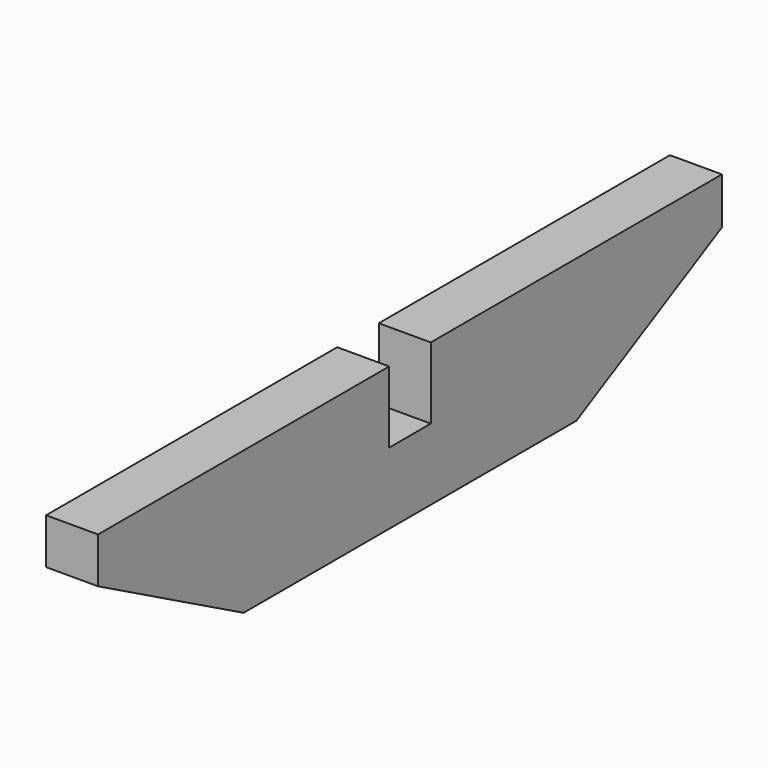
from build123d import *

# Parameters (mm, degrees)
F0_W     = 50.8
F0_H     = 69.85
F1_DEPTH = 50.8


with BuildPart() as f1:
    # F0 (on Right) → F1 (new body)
    with BuildSketch(Plane.YZ):
        Polygon((-203.2, -72.598566), (-25.4, -72.598566), (-25.4, -2.748566), (-25.4, 67.101434), (-381, 67.101434), (-381, 22.465354), align=None)
        with Locations((0, -37.673566)):
            Rectangle(F0_W, F0_H)
        Polygon((25.4, -2.748566), (25.4, -72.598566), (203.2, -72.598566), (381, 21.511034), (381, 67.101434), (25.4, 67.101434), align=None)
    extrude(amount=F1_DEPTH)


solid = f1.part
